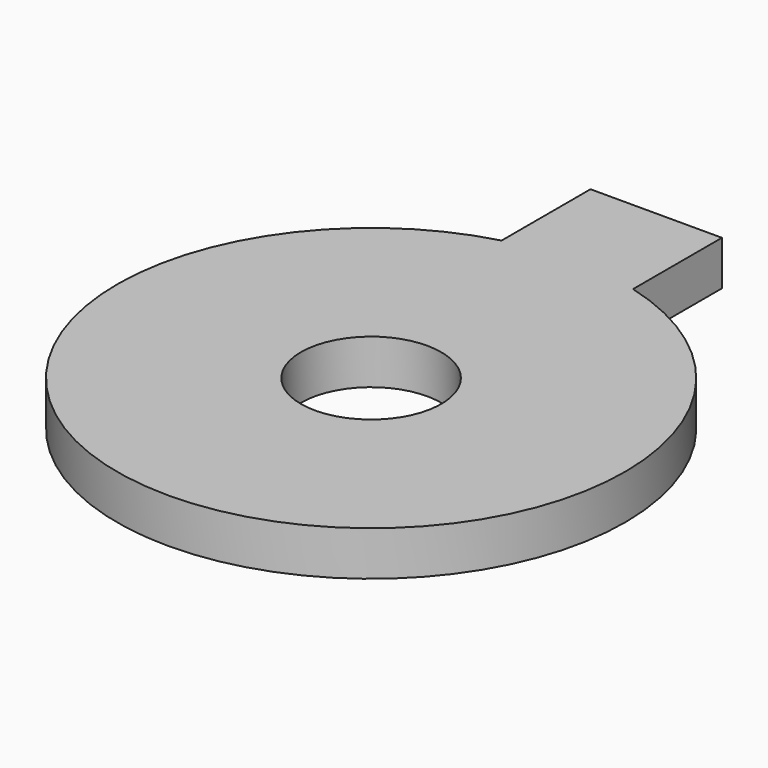
from build123d import *

# Parameters (mm, degrees)
F1_DEPTH = 2
F3_D     = 6.3


with BuildPart() as f1:
    # F0 (on Top) → F1 (new body)
    with BuildSketch(Plane.XY):
        with BuildLine():
            Line((-2.95, 16), (-2.95, 11.011698))
            ThreePointArc((-2.95, 11.011698), (0, -11.4), (2.95, 11.011698))
            Line((2.95, 11.011698), (2.95, 16))
            Line((2.95, 16), (-2.95, 16))
        make_face()
    extrude(amount=F1_DEPTH)

    # F3 (through all)
    with Locations(Plane.XY.offset(2)):
        with Locations((0, 0)):
            Hole(F3_D / 2)


solid = f1.part
